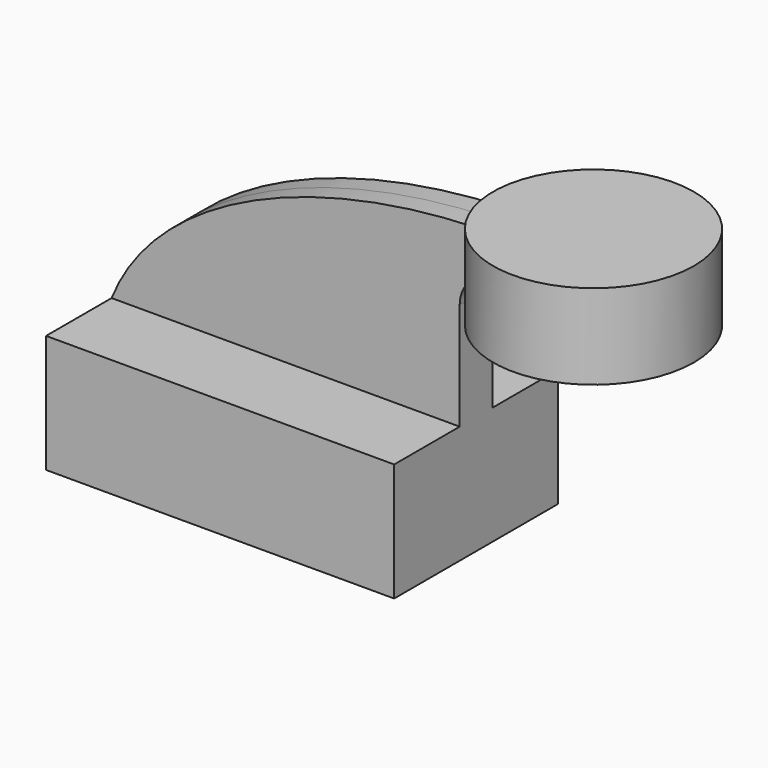
from build123d import *

# Parameters (mm, degrees)
F1_DEPTH = 25
F2_DEPTH = 5


with BuildPart() as f1:
    # F0 (on Front) → F1 (new body, symmetric)
    with BuildSketch(Plane.XZ):
        Polygon((32.5, 14.412519), (-42.5, 14.412519), (-42.5, -14.412519), (42.5, -14.412519), (42.5, 14.412519), align=None)
    extrude(amount=F1_DEPTH, both=True)

    # F0 (on Front) → F2 (join, symmetric)
    with BuildSketch(Plane.XZ):
        with BuildLine():
            Line((32.5, 40.587481), (32.5, 14.412519))
            Line((32.5, 14.412519), (42.5, 14.412519))
            Line((42.5, 14.412519), (42.5, 40.587481))
            ThreePointArc((42.5, 40.587481), (44.843146, 46.244336), (50.5, 48.587481))
            Line((50.5, 48.587481), (65.721087, 48.587481))
            Line((65.721087, 48.587481), (65.721087, 58.587481))
            Line((65.721087, 58.587481), (50.5, 58.587481))
            add(Edge.make_bspline(
                [(50.123601, 58.583546), (50.249035, 58.584995), (50.374501, 58.586307), (50.5, 58.587481)],
                knots=[102.657738, 102.657738, 102.657738, 102.657738, 102.958377, 102.958377, 102.958377, 102.958377], degree=3))
            ThreePointArc((50.123601, 58.583546), (37.639689, 53.181623), (32.5, 40.587481))
        make_face()
        with BuildLine():
            add(Edge.make_bspline(
                [(-42.5, 14.412519), (-31.693433, 41.543898), (7.292415, 58.088539), (50.123601, 58.583546)],
                knots=[0, 0, 0, 0, 102.657738, 102.657738, 102.657738, 102.657738], degree=3))
            Line((-42.5, 14.412519), (32.5, 14.412519))
            Line((32.5, 14.412519), (32.5, 40.587481))
            ThreePointArc((32.5, 40.587481), (37.639689, 53.181623), (50.123601, 58.583546))
        make_face()
    extrude(amount=F2_DEPTH, both=True)

    # F0 (on Front) → F3 (revolve)
    with BuildSketch(Plane.XZ):
        Polygon((71.16668, 64.222187), (71.16668, 58.587481), (71.16668, 48.587481), (71.16668, 43.468155), (95.699124, 43.468155), (95.699124, 64.222187), align=None)
    revolve(axis=Axis((71.16668, 0, 53.845171), (0, 0, 1)))


solid = f1.part
